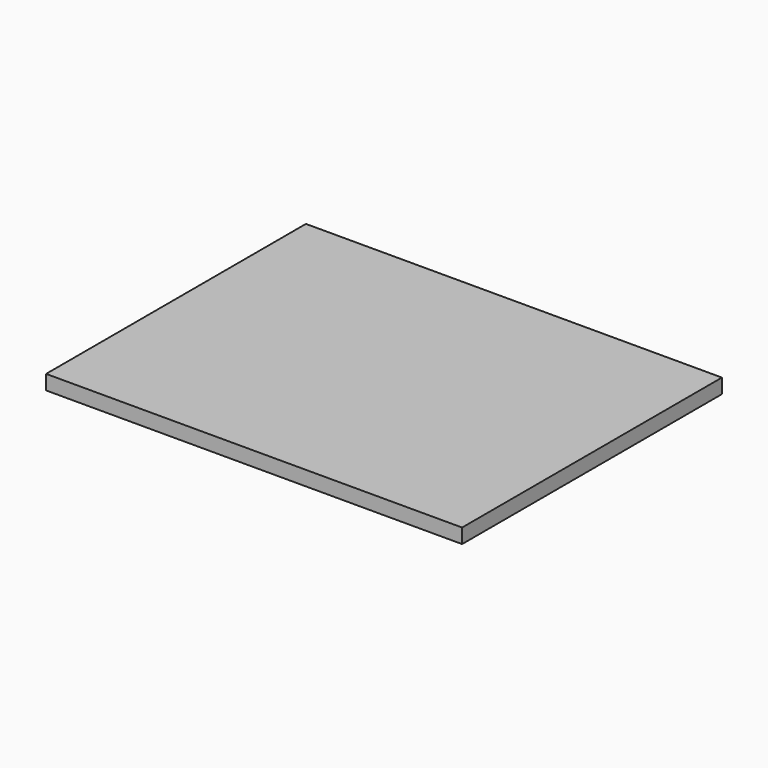
from build123d import *

# Parameters (mm, degrees)
SKETCH_W  = 85.5
SKETCH_H  = 66.75
PAD_DEPTH = 3


with BuildPart() as part:
    # Sketch → Pad (new body)
    with BuildSketch(Plane.XY):
        Rectangle(SKETCH_W, SKETCH_H)
    extrude(amount=PAD_DEPTH)


solid = part.part
